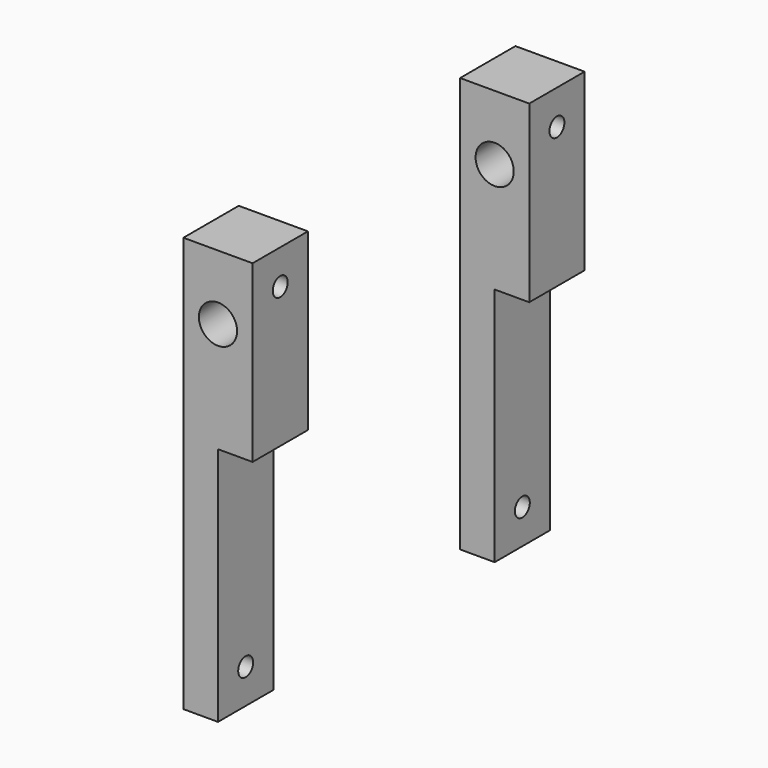
from build123d import *

# Parameters (mm, degrees)
F0_W     = 12.7
F0_H     = 32.1159050748
F0_R     = 1.7145
F0_H_2   = 44.0840949252
F1_DEPTH = 6.35
F2_R     = 3.5052
F3_DEPTH = 50.8
F0_H_3   = 21.6972124815
F5_DEPTH = 25.4


with BuildPart() as f1:
    # F0 (on Right) → F1 (new body, symmetric)
    with BuildSketch(Plane.YZ):
        with Locations((-43.7161919508, 30.0801733948)):
            Rectangle(F0_W, F0_H)
        with Locations((-43.7161919508, 39.7881259322)):
            Circle(F0_R, mode=Mode.SUBTRACT)
        with Locations((-43.7161919508, -8.0198266052)):
            Rectangle(F0_W, F0_H_2)
        with Locations((-43.7161919508, -23.7118740678)):
            Circle(F0_R, mode=Mode.SUBTRACT)
    extrude(amount=F1_DEPTH, both=True)


with BuildPart() as f1b:
    # F0 (on Right) → F1, piece 2 (new body, symmetric)
    with BuildSketch(Plane.YZ):
        with Locations((19.7838080492, 30.0801733948)):
            Rectangle(F0_W, F0_H)
        with Locations((19.7838080492, 39.7881259322)):
            Circle(F0_R, mode=Mode.SUBTRACT)
        with Locations((19.7838080492, -8.0198266052)):
            Rectangle(F0_W, F0_H_2)
        with Locations((19.7838080492, -23.7118740678)):
            Circle(F0_R, mode=Mode.SUBTRACT)
    extrude(amount=F1_DEPTH, both=True)


with BuildPart() as f3:
    # F2 (on Front) → F3 (new body, symmetric)
    with BuildSketch(Plane.XZ):
        with Locations((0, 34.2369452119)):
            Circle(F2_R)
    extrude(amount=F3_DEPTH, both=True)


with BuildPart() as f1b_1:
    add(f1b.part)

    # F4: cut F3
    add(f3.part, mode=Mode.SUBTRACT)


with BuildPart() as f1_1:
    add(f1.part)

    # F4: cut F3
    add(f3.part, mode=Mode.SUBTRACT)


with BuildPart() as f5:
    # F0 (on Right) → F5 (new body)
    with BuildSketch(Plane.YZ):
        with Locations((-43.7161919508, -8.0198266052)):
            Rectangle(F0_W, F0_H_2)
        with Locations((-43.7161919508, -23.7118740678)):
            Circle(F0_R, mode=Mode.SUBTRACT)
        with Locations((-43.7161919508, -40.9104803085)):
            Rectangle(F0_W, F0_H_3)
    extrude(amount=F5_DEPTH)


with BuildPart() as f5b:
    # F0 (on Right) → F5, piece 2 (new body)
    with BuildSketch(Plane.YZ):
        with Locations((19.7838080492, -8.0198266052)):
            Rectangle(F0_W, F0_H_2)
        with Locations((19.7838080492, -23.7118740678)):
            Circle(F0_R, mode=Mode.SUBTRACT)
        with Locations((19.7838080492, -40.9104803085)):
            Rectangle(F0_W, F0_H_3)
    extrude(amount=F5_DEPTH)


with BuildPart() as f1b_2:
    add(f1b_1.part)

    # F6: cut F5b, F5
    add(f5b.part, mode=Mode.SUBTRACT)
    add(f5.part, mode=Mode.SUBTRACT)


with BuildPart() as f1_2:
    add(f1_1.part)

    # F6: cut F5b, F5
    add(f5b.part, mode=Mode.SUBTRACT)
    add(f5.part, mode=Mode.SUBTRACT)


solid = Compound([f1b_2.part, f1_2.part])
